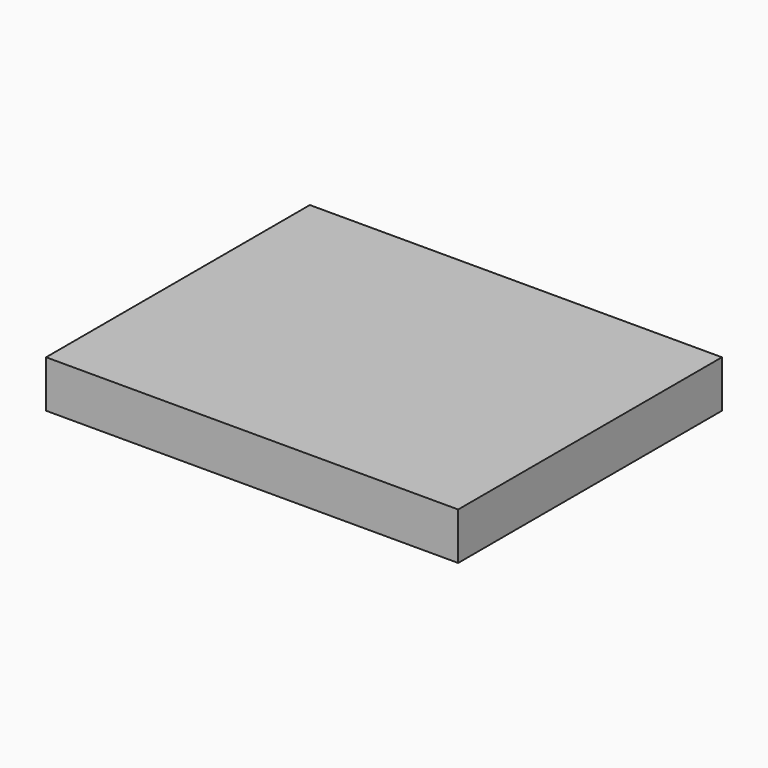
from build123d import *

# Parameters (mm, degrees)
F0_W     = 444.5
F0_H     = 355.6
F1_DEPTH = 50.8
F2_W     = 304.8
F2_H     = 25.4
F3_DEPTH = 12.7


with BuildPart() as f1:
    # F0 (on Top) → F1 (new body)
    with BuildSketch(Plane.XY):
        Rectangle(F0_W, F0_H)
    extrude(amount=F1_DEPTH)

    # F2 (on face) → F3 (cut)
    with BuildSketch(Plane.XY):
        with Locations((-6.35, -101.6)):
            Rectangle(F2_W, F2_H)
    extrude(amount=F3_DEPTH, mode=Mode.SUBTRACT)


solid = f1.part
